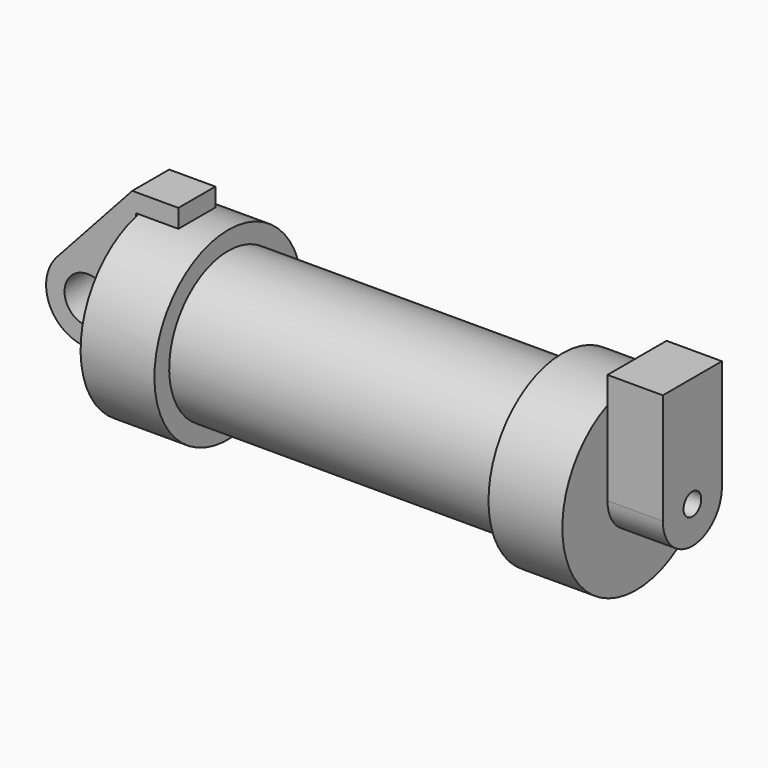
from build123d import *

# Parameters (mm, degrees)
F0_W     = 5.842
F0_H     = 12.7
F0_R     = 3.175
F2_DEPTH = 3.175
F3_R     = 1.524
F4_DEPTH = 7.62


with BuildPart() as f1:
    # F0 (on Front) → F1 (revolve)
    with BuildSketch(Plane.XZ):
        with Locations((2.921, 6.35)):
            Rectangle(F0_W, F0_H)
        Polygon((5.842, 12.7), (5.842, 0), (66.294, 0), (66.294, 12.7), (56.134, 12.7), (56.134, 10.16), (10.16, 10.16), (10.16, 12.7), align=None)
    revolve(axis=Axis((33.147, 0, 0), (-1, 0, 0)))

    # F3 (on face) → F4 (join)
    with BuildSketch(Plane.YZ.offset(66.294)):
        with BuildLine():
            ThreePointArc((-4.9370855387, 11.7010762917), (0.1559347004, 12.6990426556), (5.2229144613, 11.576319127))
            Line((5.2229144613, 11.576319127), (5.2229144613, 15.3851687422))
            Line((5.2229144613, 15.3851687422), (-4.9370855387, 15.3851687422))
            Line((-4.9370855387, 15.3851687422), (-4.9370855387, 11.7010762917))
        make_face()
        with BuildLine():
            ThreePointArc((-4.9370855387, 0.1451687422), (0.1429144613, 5.2251687422), (5.2229144613, 0.1451687422))
            Line((5.2229144613, 0.1451687422), (5.2229144613, 11.576319127))
            ThreePointArc((5.2229144613, 11.576319127), (0.1559347004, 12.6990426556), (-4.9370855387, 11.7010762917))
            Line((-4.9370855387, 11.7010762917), (-4.9370855387, 0.1451687422))
        make_face()
        with BuildLine():
            ThreePointArc((-4.9370855387, 0.1451687422), (0.1429144613, -4.9348312578), (5.2229144613, 0.1451687422))
            ThreePointArc((5.2229144613, 0.1451687422), (0.1429144613, 5.2251687422), (-4.9370855387, 0.1451687422))
        make_face()
        with Locations((0.1429144613, 0.1451687422)):
            Circle(F3_R, mode=Mode.SUBTRACT)
    extrude(amount=F4_DEPTH)


with BuildPart() as f2:
    # F0 (on Front) → F2 (new body, symmetric)
    with BuildSketch(Plane.XZ):
        with BuildLine():
            Line((-0.9398, 0), (0, 0))
            Line((0, 0), (0, 12.7))
            Line((0, 12.7), (5.842, 12.7))
            Line((5.842, 12.7), (5.842, 15.24))
            Line((5.842, 15.24), (-0.508, 15.24))
            Line((-0.508, 15.24), (-10.8806298187, 3.8475430269))
            ThreePointArc((-10.8806298187, 3.8475430269), (-4.5919612295, 5.3297205562), (-0.9398, 0))
        make_face()
        with BuildLine():
            Line((5.842, 0), (0, 0))
            Line((0, 0), (-0.9398, 0))
            ThreePointArc((-0.9398, 0), (-3.1957909266, -4.5493385486), (-8.1826630726, -5.5069827884))
            Line((-8.1826630726, -5.5069827884), (5.842, -9.398))
            Line((5.842, -9.398), (5.842, 0))
        make_face()
        with BuildLine():
            ThreePointArc((-8.1826630726, -5.5069827884), (-3.1957909266, -4.5493385486), (-0.9398, 0))
            ThreePointArc((-0.9398, 0), (-4.5919612295, 5.3297205562), (-10.8806298187, 3.8475430269))
            ThreePointArc((-10.8806298187, 3.8475430269), (-12.1459778134, -1.5837270034), (-8.1826630726, -5.5069827884))
        make_face()
        with Locations((-6.6548, 0)):
            Circle(F0_R, mode=Mode.SUBTRACT)
    extrude(amount=F2_DEPTH, both=True)


solid = Compound([f1.part, f2.part])
